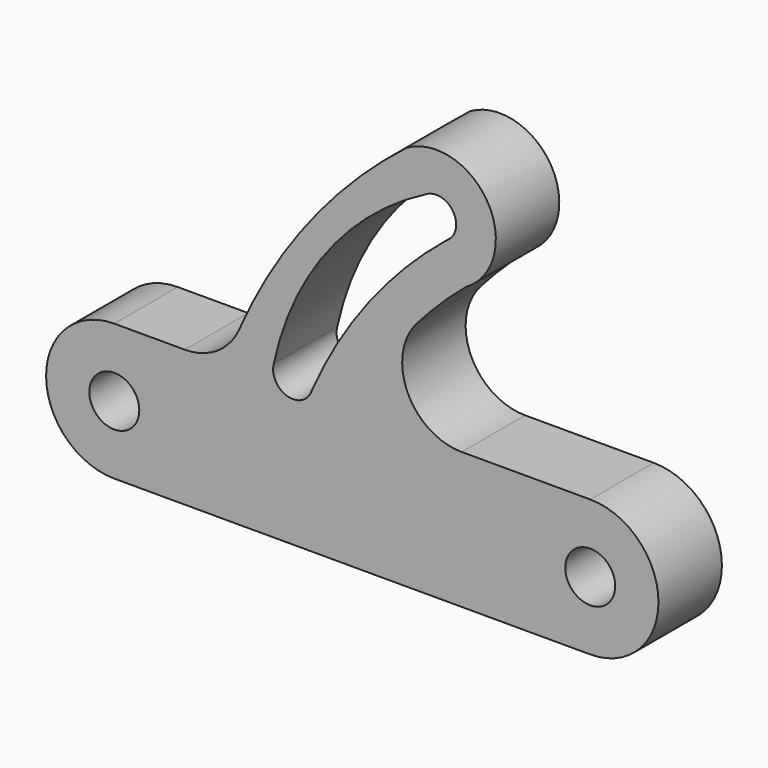
from build123d import *

# Parameters (mm, degrees)
F0_R     = 8.001
F1_DEPTH = 25.4


with BuildPart() as f1:
    # F0 (on Front) → F1 (new body)
    with BuildSketch(Plane.XZ):
        with BuildLine():
            Line((-76.2, -21.844), (0, -21.844))
            ThreePointArc((0, -21.844), (21.844, 0), (0, 21.844))
            Line((0, 21.844), (-41.175205, 21.844))
            ThreePointArc((-41.175205, 21.844), (-58.513323, 33.001463), (-55.541791, 53.404144))
            ThreePointArc((-55.541791, 53.404144), (-47.955418, 61.443356), (-39.751, 68.850752))
            ThreePointArc((-39.751, 68.850752), (-32.778216, 94.873536), (-58.801, 101.84632))
            ThreePointArc((-58.801, 101.84632), (-89.907606, 70.913561), (-112.392814, 33.245646))
            ThreePointArc((-112.392814, 33.245646), (-119.418861, 24.947156), (-129.840026, 21.844))
            Line((-129.840026, 21.844), (-152.4, 21.844))
            ThreePointArc((-152.4, 21.844), (-174.244, 0), (-152.4, -21.844))
            Line((-152.4, -21.844), (-76.2, -21.844))
        make_face()
        with Locations((-152.4, 0)):
            Circle(F0_R, mode=Mode.SUBTRACT)
        Circle(F0_R, mode=Mode.SUBTRACT)
        with BuildLine():
            ThreePointArc((-52.451, 90.847797), (-43.776739, 88.523536), (-46.101, 79.849274))
            ThreePointArc((-46.101, 79.849274), (-70.902285, 54.405237), (-89.060293, 23.863634))
            ThreePointArc((-89.060293, 23.863634), (-96.837423, 19.373506), (-101.327551, 27.150635))
            ThreePointArc((-101.327551, 27.150635), (-84.079326, 64.516336), (-52.451, 90.847797))
        make_face(mode=Mode.SUBTRACT)
    extrude(amount=F1_DEPTH)


solid = f1.part
